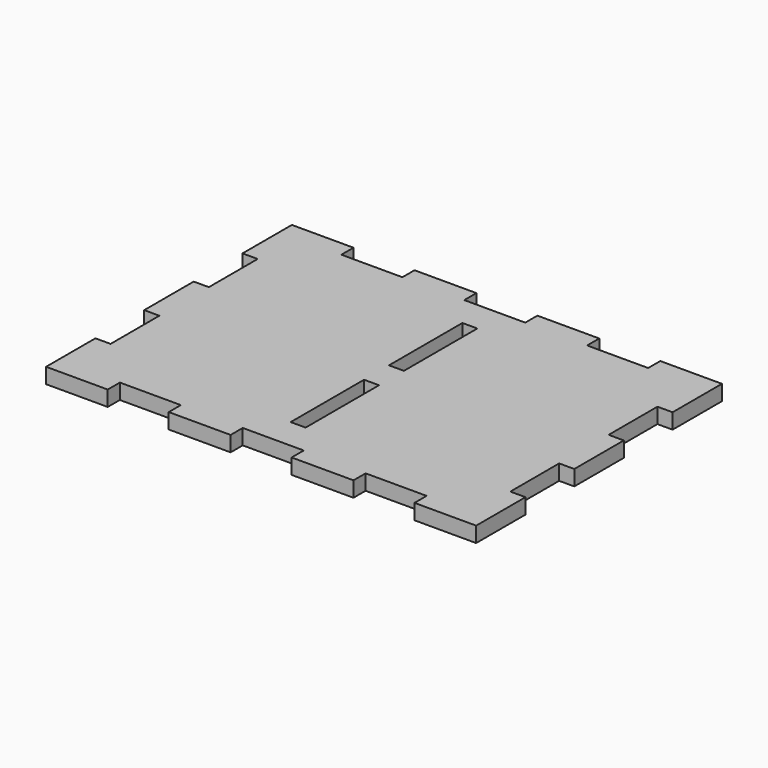
from build123d import *

# Parameters (mm, degrees)
F1_DEPTH = 6.35
F2_W     = 6.1722
F2_H     = 37.9222
F3_DEPTH = 6.351


with BuildPart() as f1:
    # F0 (on Top) → F1 (new body)
    with BuildSketch(Plane.XY):
        Polygon((0, 25.4889), (0, 0), (25.4889, 0), (25.4889, 6.2611), (50.7111, 6.2611), (50.7111, 0), (76.2889, 0), (76.2889, 6.2611), (101.5111, 6.2611), (101.5111, 0), (127.0889, 0), (127.0889, 6.2611), (152.3111, 6.2611), (152.3111, 0), (177.8, 0), (177.8, 25.4889), (171.5389, 25.4889), (171.5389, 50.7111), (177.8, 50.7111), (177.8, 76.2889), (171.5389, 76.2889), (171.5389, 101.5111), (177.8, 101.5111), (177.8, 127), (152.3111, 127), (152.3111, 120.7389), (127.0889, 120.7389), (127.0889, 127), (101.5111, 127), (101.5111, 120.7389), (76.2889, 120.7389), (76.2889, 127), (50.7111, 127), (50.7111, 120.7389), (25.4889, 120.7389), (25.4889, 127), (0, 127), (0, 101.5111), (6.2611, 101.5111), (6.2611, 76.2889), (0, 76.2889), (0, 50.7111), (6.2611, 50.7111), (6.2611, 25.4889), align=None)
    extrude(amount=F1_DEPTH)

    # F2 (on face) → F3 (cut, through all)
    with BuildSketch(Plane.XY.offset(6.35)):
        with Locations((88.9, 38.1)):
            Rectangle(F2_W, F2_H)
        with Locations((88.9, 88.9)):
            Rectangle(F2_W, F2_H)
    extrude(amount=-F3_DEPTH, mode=Mode.SUBTRACT)


solid = f1.part
